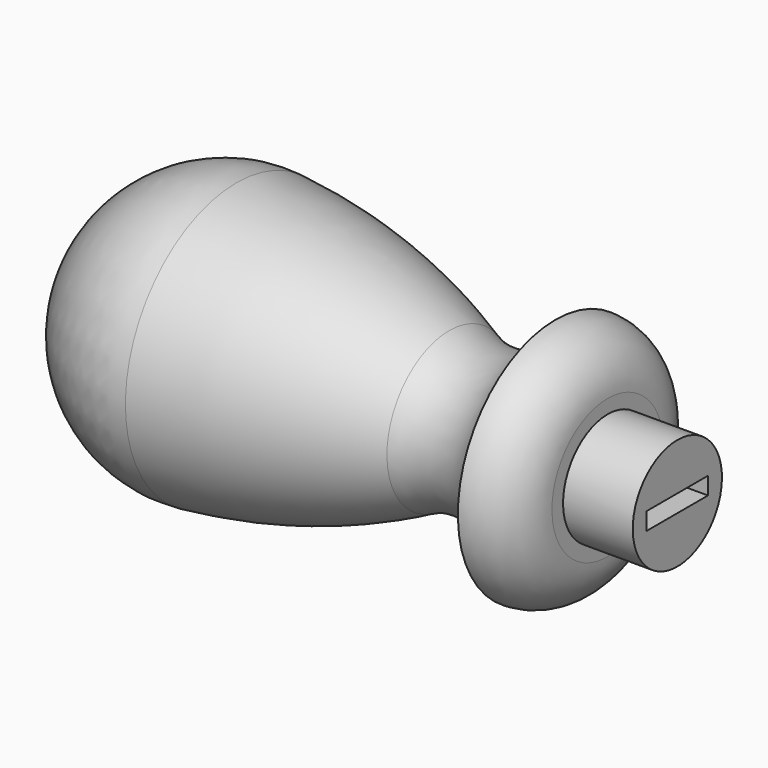
from build123d import *

# Parameters (mm, degrees)
F2_W     = 11
F2_H     = 2.5
F3_DEPTH = 55


with BuildPart() as f1:
    # F0 (on Front) → F1 (revolve)
    with BuildSketch(Plane.XZ):
        with BuildLine():
            ThreePointArc((32.263173, 11.182035), (17.416574, 17.027463), (1.726048, 19.92538))
            ThreePointArc((1.726048, 19.92538), (-13.518118, 14.739759), (-20, 0))
            Line((-20, 0), (0, 0))
            Line((0, 0), (65, 0))
            Line((65, 0), (65, 8))
            Line((65, 8), (55, 8))
            Line((55, 8), (55, 10))
            ThreePointArc((55, 10), (52.803301, 15.303301), (47.5, 17.5))
            ThreePointArc((47.5, 17.5), (41.338742, 10.826844), (32.263173, 11.182035))
        make_face()
    revolve(axis=Axis((32.5, 0, 0), (1, 0, 0)))

    # F2 (on face) → F3 (cut)
    with BuildSketch(Plane.YZ.offset(65)):
        Rectangle(F2_W, F2_H)
    extrude(amount=-F3_DEPTH, mode=Mode.SUBTRACT)


solid = f1.part
